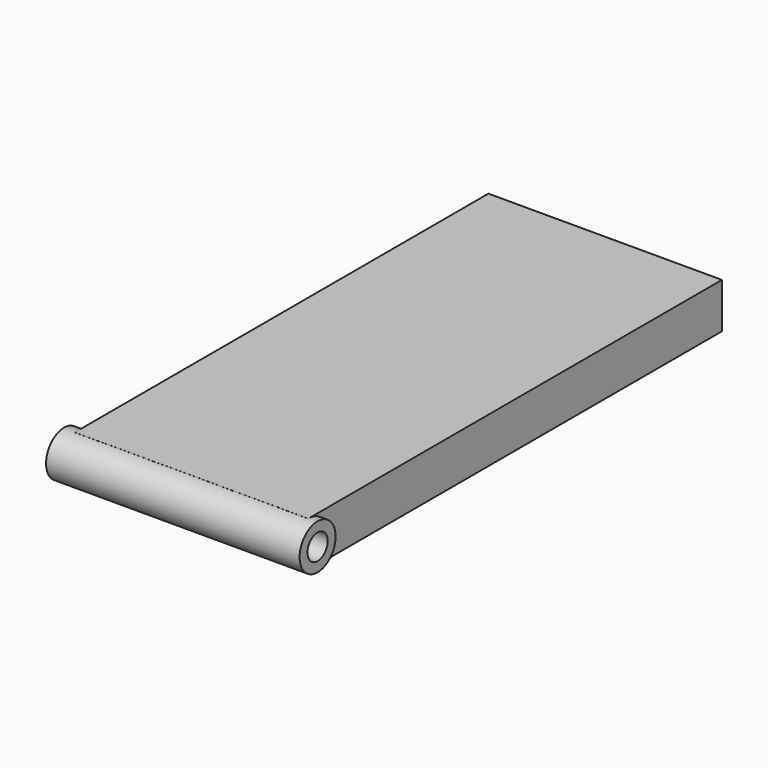
from build123d import *

# Parameters (mm, degrees)
F1_DEPTH = 310
F0_W     = 34
F0_H     = 8
F2_DEPTH = 250
F3_DEPTH = 310
F0_W_2   = 25
F4_DEPTH = 309.9
F5_R     = 13.5
F6_DEPTH = 76
F7_R     = 7.58231
F8_DEPTH = 325


with BuildPart() as f1:
    # F0 (on Front) → F1 (new body)
    with BuildSketch(Plane.XZ):
        Polygon((70.983323, 8), (52.983323, 8), (52.983323, 0), (52.983323, -19.15983), (70.983323, -19.15983), (70.983323, 3.84017), align=None)
        Polygon((-69.016677, -19.15983), (-51.016677, -19.15983), (-51.016677, 0), (-51.016677, 8), (-69.016677, 8), (-69.016677, 3.84017), align=None)
    extrude(amount=F1_DEPTH)



with BuildPart() as f2:
    # F0 (on Front) → F2 (new body)
    with BuildSketch(Plane.XZ):
        with Locations((0.983323, 4)):
            Rectangle(F0_W, F0_H)
    extrude(amount=F2_DEPTH)

    # F0 (on Front) → F3 (join)
    with BuildSketch(Plane.XZ):
        Polygon((-26.016677, 8), (-26.016677, 0), (-26.016677, -19.15983), (-16.016677, -19.15983), (-16.016677, 0), (-16.016677, 8), align=None)
        Polygon((27.983323, 8), (17.983323, 8), (17.983323, 0), (17.983323, -19.15983), (27.983323, -19.15983), (27.983323, 0), align=None)
    extrude(amount=F3_DEPTH)


with BuildPart() as f4:
    # F0 (on Front) → F4 (new body)
    with BuildSketch(Plane.XZ):
        with Locations((-38.516677, 4)):
            Rectangle(F0_W_2, F0_H)
        with Locations((40.483323, 4)):
            Rectangle(F0_W_2, F0_H)
        with Locations((0.983323, 4)):
            Rectangle(F0_W, F0_H)
    extrude(amount=F4_DEPTH)


with BuildPart() as f1_1:
    add(f1.part)

    add(f2.part)  # F6 merges F2

    add(f4.part)  # F6 merges F4
    # F5 (on Right) → F6 (join, symmetric)
    with BuildSketch(Plane.YZ):
        with Locations((-309.278336, -5.516672)):
            Circle(F5_R)
    extrude(amount=F6_DEPTH, both=True)

    # F7 (on face) → F8 (cut)
    with BuildSketch(Plane.YZ.offset(76)):
        with Locations((-309.278336, -5.516672)):
            Circle(F7_R)
    extrude(amount=-F8_DEPTH, mode=Mode.SUBTRACT)


solid = f1_1.part
